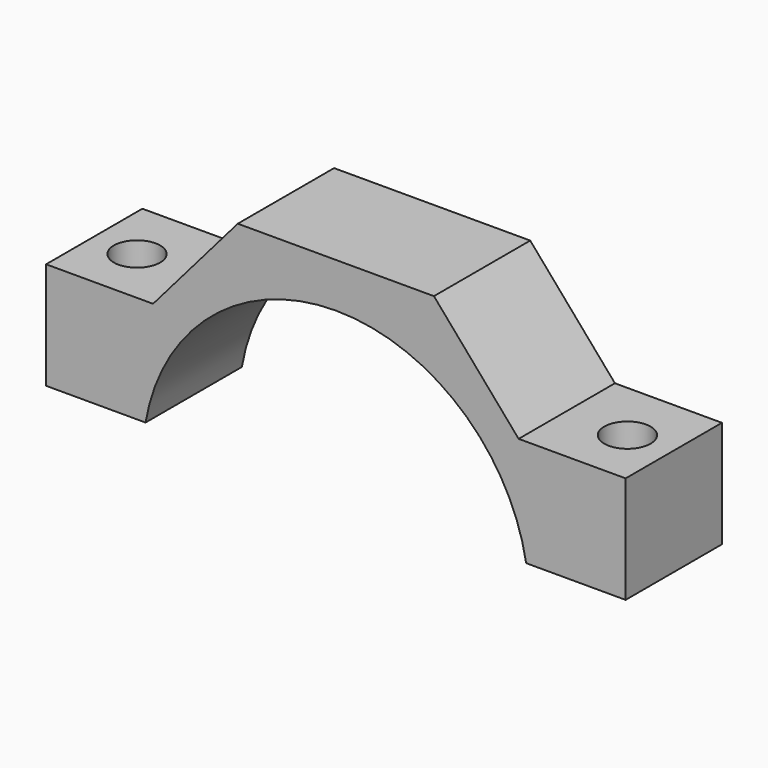
from build123d import *

# Parameters (mm, degrees)
F0_R     = 27.5
F1_DEPTH = 38.1
F2_W     = 19.05
F2_H     = 5.08
F3_DEPTH = 38.1
F5_D     = 6.6
F6_W     = 88.9
F6_H     = 38.1
F7_DEPTH = 36.83
F8_W     = 82.55
F8_H     = 29.21
F9_DEPTH = 20.955


with BuildPart() as f1:
    # F0 (on Front) → F1 (new body)
    with BuildSketch(Plane.XZ):
        Polygon((-44.45, 0), (0, 0), (44.45, 0), (44.45, 17.78), (41.275, 19.05), (41.275, 52.07), (26.035, 52.07), (13.97, 66.04), (0, 66.04), (-13.97, 66.04), (-26.035, 52.07), (-41.275, 52.07), (-41.275, 19.05), (-44.45, 17.78), align=None)
        with Locations((0, 32.19)):
            Circle(F0_R, mode=Mode.SUBTRACT)
    extrude(amount=F1_DEPTH)

    # F2 (on face) → F3 (cut, through all)
    with BuildSketch(Plane.XZ.offset(38.1)):
        with Locations((-31.75, 34.29)):
            Rectangle(F2_W, F2_H)
    extrude(amount=-F3_DEPTH, mode=Mode.SUBTRACT)

    # F5 (through all)
    with Locations(Plane.XY.offset(52.07)):
        with Locations((-34.925, -8.89), (-34.925, -29.21), (34.925, -8.89), (34.925, -29.21)):
            Hole(F5_D / 2)

    # F6 (on face) → F7 (cut, through all)
    with BuildSketch(Plane(origin=(0, 0, 0), x_dir=(1, 0, 0), z_dir=(0, 0, -1))):
        with Locations((0, 19.05)):
            Rectangle(F6_W, F6_H)
    extrude(amount=-F7_DEPTH, mode=Mode.SUBTRACT)

    # F8 (on face) → F9 (cut)
    with BuildSketch(Plane.XZ.offset(38.1)):
        with Locations((0, 51.435)):
            Rectangle(F8_W, F8_H)
    extrude(amount=-F9_DEPTH, mode=Mode.SUBTRACT)


solid = f1.part
